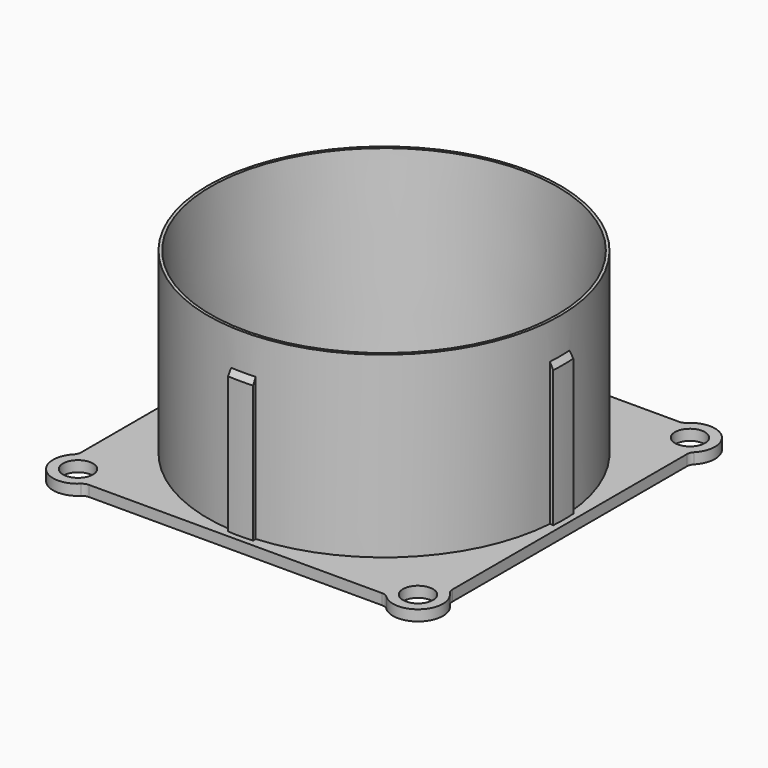
from build123d import *

# Parameters (mm, degrees)
SKETCH_R                          = 4.2
PAD_DEPTH                         = 3
REVOLUTION001_ANGLE               = 4
SKETCH_MIRRORED_2_R               = 4.2
PAD_MIRRORED_2_DEPTH              = 3
REVOLUTION001_MIRRORED002_2_ANGLE = -4
POLARPATTERN_COUNT                = 4


with BuildPart() as part:
    # Sketch → Pad (new body)
    with BuildSketch(Plane.XY):
        with BuildLine():
            Line((0, 45.25), (8.272696, 45.25))
            ThreePointArc((44.5, 11.65118), (31.280338, 33.727444), (8.272696, 45.25))
            Line((44.5, 0), (44.5, 11.65118))
            Line((44.5, 0), (52, 0))
            Line((52, 41.068752), (52, 0))
            ThreePointArc((52.690776, 42.794067), (52.17911, 41.997984), (52, 41.068752))
            ThreePointArc((52.690776, 42.794067), (52.574747, 52.574747), (42.794067, 52.690776))
            ThreePointArc((41.068752, 52), (41.997984, 52.17911), (42.794067, 52.690776))
            Line((41.068752, 52), (0, 52))
            Line((0, 45.25), (0, 52))
        make_face()
        with Locations((47.625, 47.625)):
            Circle(SKETCH_R, mode=Mode.SUBTRACT)
    pad = extrude(amount=-PAD_DEPTH)

    # Sketch001 → Revolution (revolve)
    with BuildSketch(Plane.XZ):
        Polygon((46, 0), (48.55, 50), (49.35, 50), (49.35, 0), align=None)
    revolve(axis=Axis((0, 0, 0), (0, 0, 1)))

    # Sketch002 → Revolution001 (revolve)
    with BuildSketch(Plane.XZ):
        Polygon((49.35, 0), (49.35, 40), (50.35, 38.267949), (50.35, 0), align=None)
    revolution001 = revolve(axis=Axis((0, 0, 0), (0, 0, 1)), revolution_arc=REVOLUTION001_ANGLE)

    # Sketch Mirrored 2 → Pad Mirrored 2 (add)
    with BuildSketch(Plane(origin=(0, 0, 0), x_dir=(-1, 0, 0), z_dir=(0, 0, -1))):
        with BuildLine():
            Line((0, 45.25), (8.272696, 45.25))
            ThreePointArc((44.5, 11.65118), (31.280338, 33.727444), (8.272696, 45.25))
            Line((44.5, 0), (44.5, 11.65118))
            Line((44.5, 0), (52, 0))
            Line((52, 41.068752), (52, 0))
            ThreePointArc((52.690776, 42.794067), (52.17911, 41.997984), (52, 41.068752))
            ThreePointArc((52.690776, 42.794067), (52.574747, 52.574747), (42.794067, 52.690776))
            ThreePointArc((41.068752, 52), (41.997984, 52.17911), (42.794067, 52.690776))
            Line((41.068752, 52), (0, 52))
            Line((0, 45.25), (0, 52))
        make_face()
        with Locations((47.625, 47.625)):
            Circle(SKETCH_MIRRORED_2_R, mode=Mode.SUBTRACT)
    pad_mirrored_2 = extrude(amount=PAD_MIRRORED_2_DEPTH)

    # Mirrored001: Pad, Pad Mirrored 2 across Sketch H_Axis
    add(pad.mirror(Plane.ZX))
    add(pad_mirrored_2.mirror(Plane.ZX))

    # Sketch002 Mirrored002 2 → Revolution001 Mirrored002 2 (revolve)
    with BuildSketch(Plane.XZ):
        Polygon((49.35, 0), (49.35, 40), (50.35, 38.267949), (50.35, 0), align=None)
    revolution001_mirrored002_2 = revolve(axis=Axis((0, 0, 0), (0, 0, 1)), revolution_arc=REVOLUTION001_MIRRORED002_2_ANGLE)

    # PolarPattern: Revolution001, Revolution001 Mirrored002 2 ×4 about axis
    polarpattern_axis = Axis((0, 0, 0), (0, 0, 1))
    for i in range(1, POLARPATTERN_COUNT):
        add(revolution001.rotate(polarpattern_axis, i * 360 / POLARPATTERN_COUNT))
        add(revolution001_mirrored002_2.rotate(polarpattern_axis, i * 360 / POLARPATTERN_COUNT))


solid = part.part
